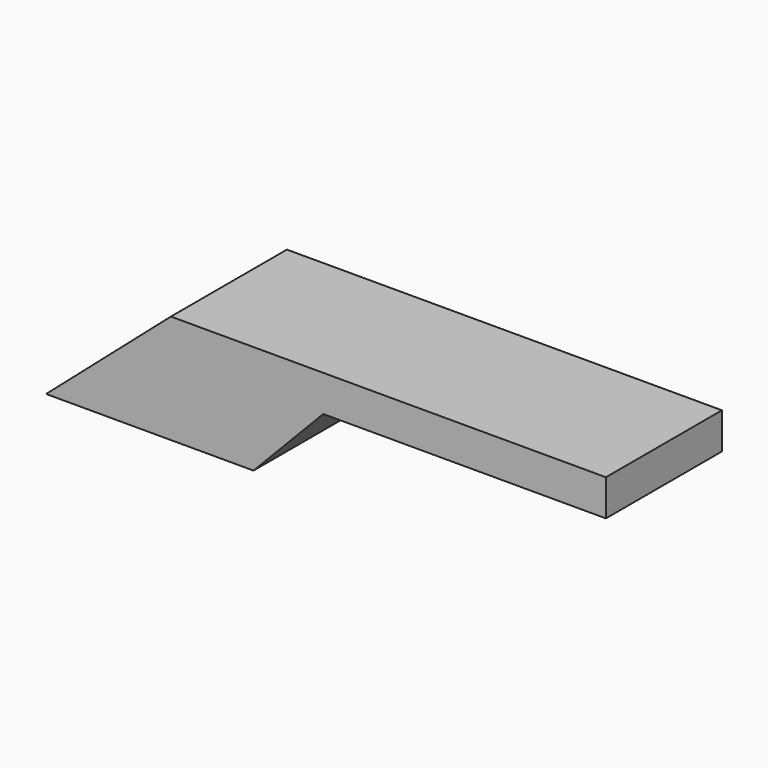
from build123d import *

# Parameters (mm, degrees)
F1_DEPTH = 25.4


with BuildPart() as f1:
    # F0 (on Front) → F1 (new body)
    with BuildSketch(Plane.XZ):
        Polygon((-10.931645, -19.05), (0, 0), (-21.863289, -19.05), align=None)
        Polygon((76.2, 0), (0, 0), (-10.931645, -19.05), (14.468346, -19.05), (26.686074, -6.35), (76.2, -6.35), align=None)
    extrude(amount=F1_DEPTH)


solid = f1.part
